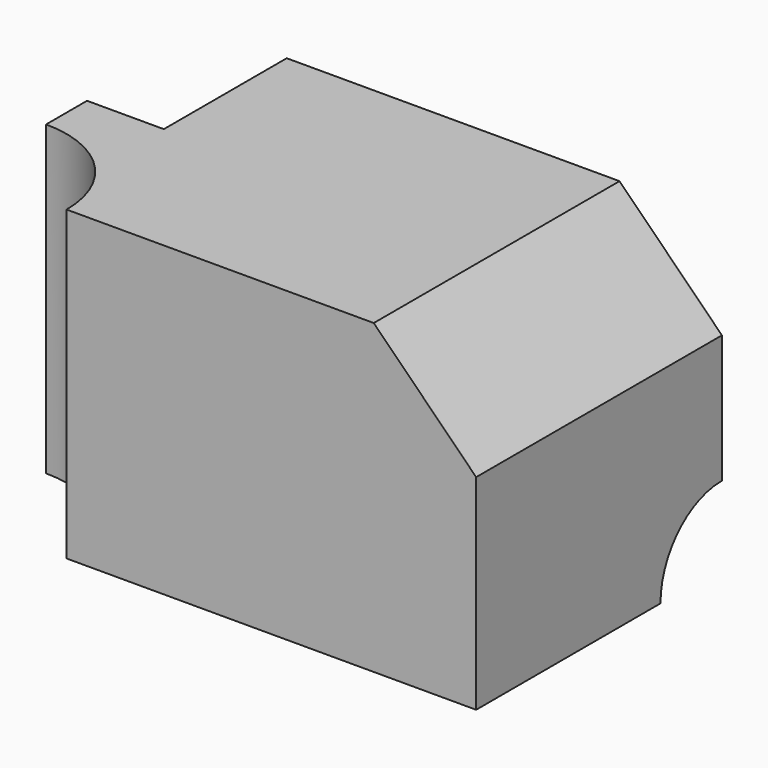
from build123d import *

# Parameters (mm, degrees)
F1_W      = 50
F1_H      = 30
F2_DEPTH  = 30
F4_DEPTH  = 50
F6_DEPTH  = 30
F8_DEPTH  = 15
F10_DEPTH = 30
F11_W     = 20
F11_H     = 10
F12_DEPTH = 20


with BuildPart() as f2:
    # F1 (on face) → F2 (new body)
    with BuildSketch(Plane.XY):
        with Locations((2.2778958082, -2.5772606838)):
            Rectangle(F1_W, F1_H)
    extrude(amount=F2_DEPTH)

    # F3 (on face) → F4 (cut)
    with BuildSketch(Plane(origin=(-22.7221041918, 0, 0), x_dir=(0, -1, 0), z_dir=(-1, 0, 0))):
        with BuildLine():
            ThreePointArc((-12.4227393162, 7.5), (-17.7260401751, -5.3033008589), (-4.9227393162, 0))
            Line((-4.9227393162, 0), (-12.4227393162, 0))
            Line((-12.4227393162, 0), (-12.4227393162, 7.5))
        make_face()
        with BuildLine():
            Line((-12.4227393162, 0), (-4.9227393162, 0))
            ThreePointArc((-4.9227393162, 0), (-7.1194384573, 5.3033008589), (-12.4227393162, 7.5))
            Line((-12.4227393162, 7.5), (-12.4227393162, 0))
        make_face()
    extrude(amount=-F4_DEPTH, mode=Mode.SUBTRACT)

    # F5 (on face) → F6 (cut)
    with BuildSketch(Plane(origin=(0, 12.4227393162, 0), x_dir=(-1, 0, 0), z_dir=(0, 1, 0))):
        Polygon((-17.2778958082, 30), (-27.2778958082, 30), (-27.2778958082, 20), align=None)
    extrude(amount=-F6_DEPTH, mode=Mode.SUBTRACT)

    # F7 (on face) → F8 (cut)
    with BuildSketch(Plane(origin=(0, 12.4227393162, 0), x_dir=(-1, 0, 0), z_dir=(0, 1, 0))):
        with BuildLine():
            Line((22.7221041918, 30), (15.2221041918, 30))
            ThreePointArc((15.2221041918, 30), (17.4188033329, 24.6966991411), (22.7221041918, 22.5))
            Line((22.7221041918, 22.5), (22.7221041918, 30))
        make_face()
    extrude(amount=-F8_DEPTH, mode=Mode.SUBTRACT)

    # F9 (on face) → F10 (cut)
    with BuildSketch(Plane.XY.offset(30)):
        with BuildLine():
            Line((-22.7221041918, -17.5772606838), (-12.7221041918, -17.5772606838))
            ThreePointArc((-12.7221041918, -17.5772606838), (-15.6510363799, -10.5061928719), (-22.7221041918, -7.5772606838))
            Line((-22.7221041918, -7.5772606838), (-22.7221041918, -17.5772606838))
        make_face()
    extrude(amount=-F10_DEPTH, mode=Mode.SUBTRACT)

    # F11 (on face) → F12 (cut)
    with BuildSketch(Plane(origin=(0, 12.4227393162, 0), x_dir=(-1, 0, 0), z_dir=(0, 1, 0))):
        with Locations((-2.2778958082, 15)):
            Rectangle(F11_W, F11_H)
    extrude(amount=-F12_DEPTH, mode=Mode.SUBTRACT)


solid = f2.part
